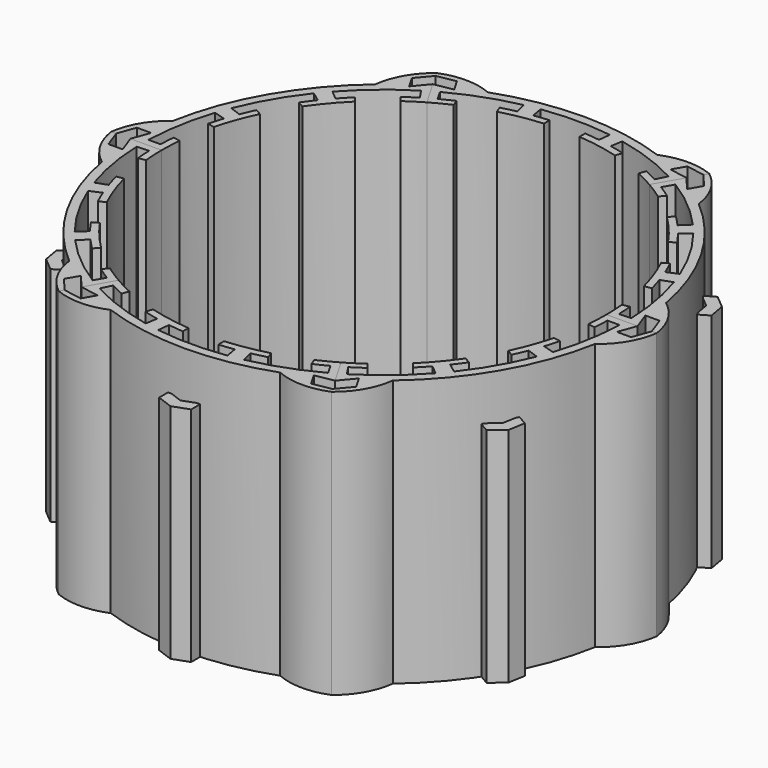
from build123d import *

# Parameters (mm, degrees)
PAD_DEPTH          = 60
POCKET_DEPTH       = 226.8177557531
POLARPATTERN_COUNT = 3
POLARPATTERN_ANGLE = 40
PAD003_DEPTH       = 60
POCKET001_DEPTH    = 60.001
ARRAY_COUNT        = 6
PAD002_DEPTH       = 50
ARRAY001_COUNT     = 12


with BuildPart() as segments:
    # Sketch → Pad (new body)
    with BuildSketch(Plane.XY):
        with BuildLine():
            Line((50, 0), (56.3, 0))
            ThreePointArc((56.3, 0), (48.7572302331, 28.15), (28.15, 48.7572302331))
            Line((25, 43.3012701892), (28.15, 48.7572302331))
            ThreePointArc((50, 0), (43.3012701892, 25), (25, 43.3012701892))
        make_face()
    extrude(amount=PAD_DEPTH)

    # Sketch004 → Pocket (cut, through all)
    with BuildSketch(Plane.XY.offset(60)):
        with BuildLine():
            ThreePointArc((54.267994429, 1.6679255194), (53.4677088721, 9.4340501833), (51.561843445, 17.0051020416))
            Line((49.0256082279, 16.0790831846), (51.561843445, 17.0051020416))
            ThreePointArc((49.9833676758, 12.794926102), (49.5317145807, 14.4449447511), (49.0256082279, 16.0790831846))
            Line((48.4072505747, 12.5195084486), (49.9833676758, 12.794926102))
            ThreePointArc((49.7843388419, 4.6389229434), (49.2536594074, 8.6068016698), (48.4072505747, 12.5195084486))
            Line((49.7843388419, 4.6389229434), (51.3604559429, 4.9143405968))
            ThreePointArc((51.5732215221, 1.5), (51.4951446211, 3.2089341877), (51.3604559429, 4.9143405969))
            Line((51.5732215221, 1.5), (54.267994429, 1.6679255194))
        make_face()
    pocket = extrude(amount=-POCKET_DEPTH, mode=Mode.SUBTRACT)

    # PolarPattern: Pocket ×3 about axis
    polarpattern_axis = Axis((0, 0, 60), (0, 0, 1))
    for i in range(1, POLARPATTERN_COUNT):
        add(pocket.rotate(polarpattern_axis, i * POLARPATTERN_ANGLE / (POLARPATTERN_COUNT - 1)), mode=Mode.SUBTRACT)

    # Sketch005 → Pad003 (new body)
    with BuildSketch(Plane.XY.offset(60)):
        with BuildLine():
            ThreePointArc((36.3626456313, 42.9819497311), (32.3853180903, 46.0530256573), (28.15, 48.7572302331))
            Line((28.15, 48.7572302331), (30.65, 53.087357252))
            ThreePointArc((36.3626456314, 42.9819497311), (34.5234988067, 48.6096689938), (30.65, 53.087357252))
        make_face()
        with BuildLine():
            ThreePointArc((56.3, 0), (56.0757491855, 5.0199953472), (55.404783187, 10))
            ThreePointArc((61.3, 0), (59.3589576215, 5.5933924972), (55.404783187, 10))
            Line((56.3, 0), (61.3, 0))
        make_face()
    extrude(amount=-PAD003_DEPTH)

    # Sketch002 → Pocket001 (cut, through all)
    with BuildSketch(Plane.XY.offset(60)):
        Polygon((57, 0), (55.5441190629, 4), (58.7441190629, 4), (60.2, 0), align=None)
        Polygon((30.1, 52.1347293078), (32.8361611466, 48.8738994314), (31.2361611466, 46.1026181393), (28.5, 49.3634480157), align=None)
    extrude(amount=-POCKET001_DEPTH, mode=Mode.SUBTRACT)


with BuildPart() as array_copy1:
    # Array: instance of segments
    add(segments.part.rotate(Axis((0, 0, 0), (0, 0, 1)), 1 * 360 / ARRAY_COUNT))


with BuildPart() as array_copy2:
    # Array: instance of segments
    add(segments.part.rotate(Axis((0, 0, 0), (0, 0, 1)), 2 * 360 / ARRAY_COUNT))


with BuildPart() as array_copy3:
    # Array: instance of segments
    add(segments.part.rotate(Axis((0, 0, 0), (0, 0, 1)), 3 * 360 / ARRAY_COUNT))


with BuildPart() as array_copy4:
    # Array: instance of segments
    add(segments.part.rotate(Axis((0, 0, 0), (0, 0, 1)), 4 * 360 / ARRAY_COUNT))


with BuildPart() as array_copy5:
    # Array: instance of segments
    add(segments.part.rotate(Axis((0, 0, 0), (0, 0, 1)), 5 * 360 / ARRAY_COUNT))


with BuildPart() as butterflies:
    # Sketch003 → Pad002 (new body)
    with BuildSketch(Plane.XY):
        Polygon((55.8897071566, 3.6), (57.2, 0), (60, 0), (58.6897071566, 3.6), align=None)
    pad002 = extrude(amount=PAD002_DEPTH)

    # Mirrored: Pad002 across Sketch003 H_Axis
    add(pad002.mirror(Plane.ZX))


with BuildPart() as array001_copy1:
    # Array001: instance of butterflies
    add(butterflies.part.rotate(Axis((0, 0, 0), (0, 0, 1)), 1 * 360 / ARRAY001_COUNT))


with BuildPart() as array001_copy2:
    # Array001: instance of butterflies
    add(butterflies.part.rotate(Axis((0, 0, 0), (0, 0, 1)), 2 * 360 / ARRAY001_COUNT))


with BuildPart() as array001_copy3:
    # Array001: instance of butterflies
    add(butterflies.part.rotate(Axis((0, 0, 0), (0, 0, 1)), 3 * 360 / ARRAY001_COUNT))


with BuildPart() as array001_copy4:
    # Array001: instance of butterflies
    add(butterflies.part.rotate(Axis((0, 0, 0), (0, 0, 1)), 4 * 360 / ARRAY001_COUNT))


with BuildPart() as array001_copy5:
    # Array001: instance of butterflies
    add(butterflies.part.rotate(Axis((0, 0, 0), (0, 0, 1)), 5 * 360 / ARRAY001_COUNT))


with BuildPart() as array001_copy6:
    # Array001: instance of butterflies
    add(butterflies.part.rotate(Axis((0, 0, 0), (0, 0, 1)), 6 * 360 / ARRAY001_COUNT))


with BuildPart() as array001_copy7:
    # Array001: instance of butterflies
    add(butterflies.part.rotate(Axis((0, 0, 0), (0, 0, 1)), 7 * 360 / ARRAY001_COUNT))


with BuildPart() as array001_copy8:
    # Array001: instance of butterflies
    add(butterflies.part.rotate(Axis((0, 0, 0), (0, 0, 1)), 8 * 360 / ARRAY001_COUNT))


with BuildPart() as array001_copy9:
    # Array001: instance of butterflies
    add(butterflies.part.rotate(Axis((0, 0, 0), (0, 0, 1)), 9 * 360 / ARRAY001_COUNT))


with BuildPart() as array001_copy10:
    # Array001: instance of butterflies
    add(butterflies.part.rotate(Axis((0, 0, 0), (0, 0, 1)), 10 * 360 / ARRAY001_COUNT))


with BuildPart() as array001_copy11:
    # Array001: instance of butterflies
    add(butterflies.part.rotate(Axis((0, 0, 0), (0, 0, 1)), 11 * 360 / ARRAY001_COUNT))


solid = Compound([segments.part, array_copy1.part, array_copy2.part, array_copy3.part, array_copy4.part, array_copy5.part, butterflies.part, array001_copy1.part, array001_copy2.part, array001_copy3.part, array001_copy4.part, array001_copy5.part, array001_copy6.part, array001_copy7.part, array001_copy8.part, array001_copy9.part, array001_copy10.part, array001_copy11.part])
